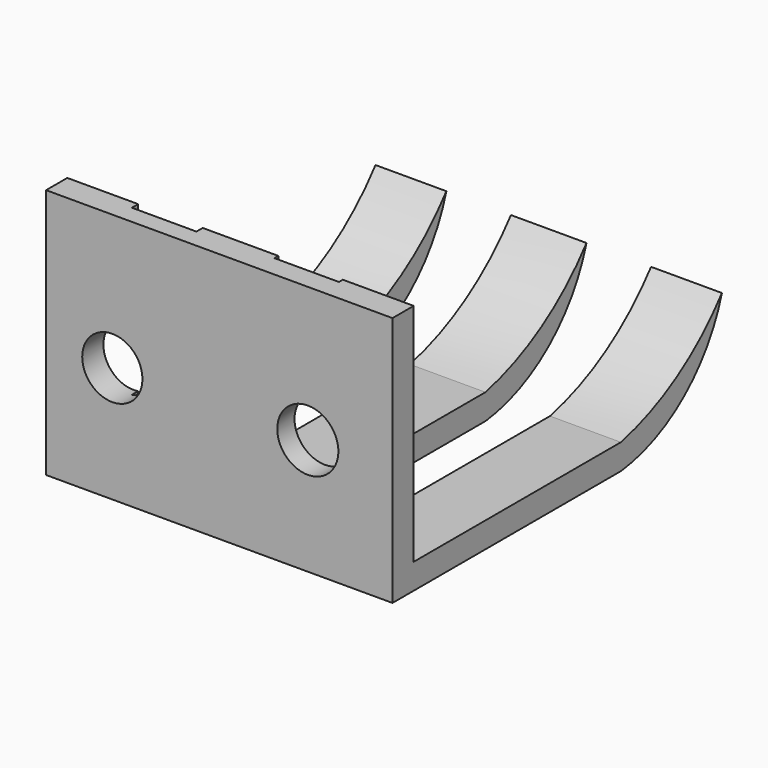
from build123d import *

# Parameters (mm, degrees)
F1_DEPTH = 27.94
F2_R     = 2.428282
F2_R_2   = 2.464218
F3_DEPTH = 5.08
F4_W     = 5.207
F4_H     = 31.709664
F4_H_2   = 31.473025
F5_DEPTH = 23.622


with BuildPart() as f1:
    # F0 (on Right) → F1 (new body)
    with BuildSketch(Plane.YZ):
        with BuildLine():
            Line((-33.215124, 0), (-10.148687, 0))
            ThreePointArc((-10.148687, 0), (-3.800376, 2.735055), (0, 8.509024))
            ThreePointArc((0, 8.509024), (-4.54194, 4.408232), (-10.190163, 2.053812))
            Line((-10.190163, 2.053812), (-31.077091, 2.053812))
            Line((-31.077091, 2.053812), (-31.077091, 20.227084))
            Line((-31.077091, 20.227084), (-33.215124, 20.227084))
            Line((-33.215124, 20.227084), (-33.215124, 0))
        make_face()
    extrude(amount=F1_DEPTH)

    # F2 (on face) → F3 (cut)
    with BuildSketch(Plane(origin=(0, -31.077091, 0), x_dir=(-1, 0, 0), z_dir=(0, 1, 0))):
        with Locations((-5.342463, 9.339899)):
            Circle(F2_R)
        with Locations((-21.111647, 9.339899)):
            Circle(F2_R_2)
    extrude(amount=-F3_DEPTH, mode=Mode.SUBTRACT)

    # F4 (on Top) → F5 (cut)
    with BuildSketch(Plane.XY):
        with Locations((8.3185, -15.854832)):
            Rectangle(F4_W, F4_H)
        with Locations((19.6215, -15.736512)):
            Rectangle(F4_W, F4_H_2)
    extrude(amount=F5_DEPTH, mode=Mode.SUBTRACT)


solid = f1.part
